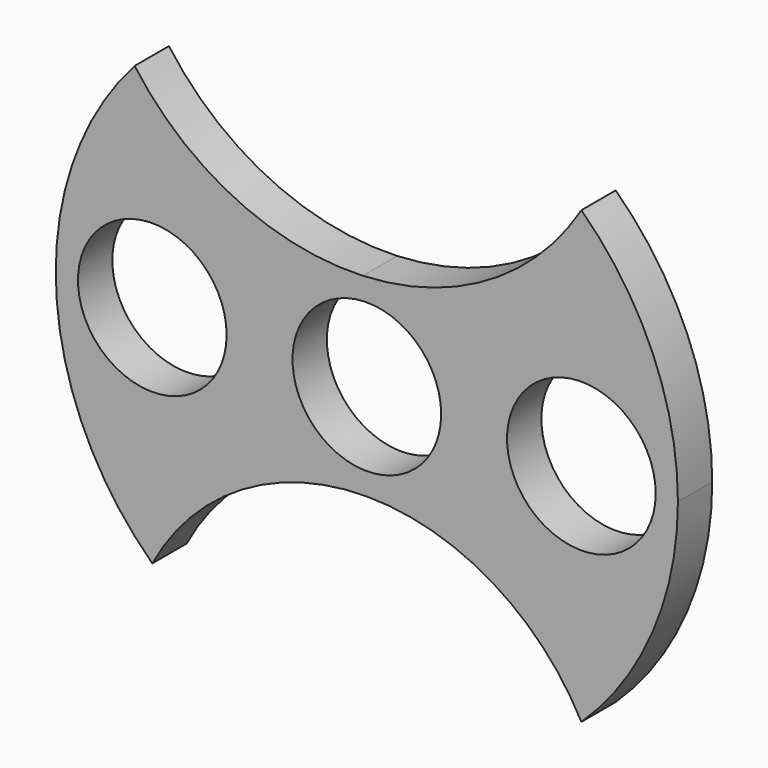
from build123d import *

# Parameters (mm, degrees)
F0_R     = 14.2875
F0_R_2   = 10.9982
F1_DEPTH = 6.35


with BuildPart() as f1:
    # F0 (on Front) → F1 (new body)
    with BuildSketch(Plane.XZ):
        with BuildLine():
            ThreePointArc((-0.5844780805, 14.2755399766), (9.8939861955, 10.3073611275), (14.2875, 0))
            ThreePointArc((14.2875, 0), (10.1027881233, -10.1027881491), (-3.66e-08, -14.2875))
            ThreePointArc((-3.66e-08, -14.2875), (18.5132722505, -19.415379547), (31.75, -33.3375))
            ThreePointArc((31.75, -33.3375), (42.3151393195, -18.1350597083), (46.0375, 0))
            ThreePointArc((46.0375, 0), (42.3151393195, 18.1350597083), (31.75, 33.3375))
            ThreePointArc((31.75, 33.3375), (17.9746422802, 19.7492124484), (-0.5844780805, 14.2755399766))
        make_face()
        with Locations((31.75, 0)):
            Circle(F0_R, mode=Mode.SUBTRACT)
        with BuildLine():
            ThreePointArc((-3.66e-08, -14.2875), (-14.2845096816, -0.2923001993), (-0.5844780805, 14.2755399766))
            ThreePointArc((-0.5844780805, 14.2755399766), (-19.5289453165, 18.2137151613), (-34.3690170298, 30.6304109449))
            ThreePointArc((-34.3690170298, 30.6304109449), (-43.021593548, 16.3888344563), (-46.0375, 1.611e-07))
            ThreePointArc((-46.0375, 1.611e-07), (-42.3151393512, -18.1350596343), (-31.75, -33.3375))
            ThreePointArc((-31.75, -33.3375), (-18.5132722818, -19.4153795658), (-3.66e-08, -14.2875))
        make_face()
        with BuildLine():
            ThreePointArc((-17.4625, 0), (-31.7500000805, -14.2875), (-46.0375, 1.611e-07))
            ThreePointArc((-46.0375, 1.611e-07), (-31.7499999195, 14.2875), (-17.4625, 0))
        make_face(mode=Mode.SUBTRACT)
        with BuildLine():
            ThreePointArc((-3.66e-08, -14.2875), (10.1027881233, -10.1027881491), (14.2875, 0))
            ThreePointArc((14.2875, 0), (9.8939861955, 10.3073611275), (-0.5844780805, 14.2755399766))
            ThreePointArc((-0.5844780805, 14.2755399766), (-14.2845096816, -0.2923001993), (-3.66e-08, -14.2875))
        make_face()
        Circle(F0_R_2, mode=Mode.SUBTRACT)
        with Locations((31.75, 0)):
            Circle(F0_R)
        with Locations((31.75, 0)):
            Circle(F0_R_2, mode=Mode.SUBTRACT)
        with BuildLine():
            ThreePointArc((-17.4625, 0), (-31.7499999195, 14.2875), (-46.0375, 1.611e-07))
            ThreePointArc((-46.0375, 1.611e-07), (-31.7500000805, -14.2875), (-17.4625, 0))
        make_face()
        with Locations((-31.75, 0)):
            Circle(F0_R_2, mode=Mode.SUBTRACT)
    extrude(amount=F1_DEPTH)


solid = f1.part
